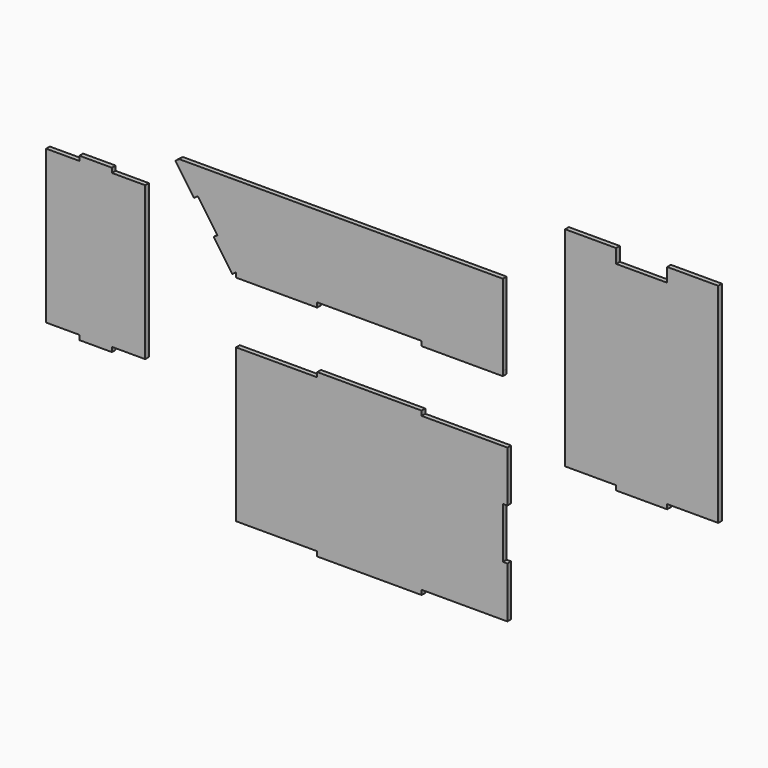
from build123d import *

# Parameters (mm, degrees)
F0_W     = 2
F0_H     = 22
F0_W_2   = 22.5
F0_H_2   = 2
F0_W_3   = 45
F0_W_4   = 22
F0_W_5   = 14
F0_H_3   = 1.999998
F0_W_6   = 7
F0_H_4   = 1.999997
F1_DEPTH = 2


with BuildPart() as f1:
    # F0 (on Front) → F1 (new body)
    with BuildSketch(Plane.XZ):
        Polygon((57.496984, -19.499998), (57.5, -17.5), (22.496984, -17.5), (22.496984, -19.499998), align=None)
        Polygon((22.496984, -17.5), (57.5, -17.5), (57.5, 17.5), (-57.5, 17.5), (-57.5, -17.5), (-22.496984, -17.5), (0, -17.5), align=None)
        Polygon((-57.5, -17.5), (-57.5, 17.5), (-82.007264, 17.5), (-73.977194, 6.031871), (-65.53007, -6.031871), align=None)
        Polygon((-22.496984, -19.499998), (-22.496984, -17.5), (-57.5, -17.5), (-57.496984, -19.499998), align=None)
        Polygon((-59.138304, -18.647153), (-57.5, -17.5), (-65.53007, -6.031871), (-67.168374, -7.179024), align=None)
        Polygon((-73.977194, 6.031871), (-82.007264, 17.5), (-83.645568, 16.352847), (-75.615498, 4.884719), align=None)
        Polygon((22.5, -111.954898), (57.5, -111.954898), (57.5, -89.954898), (57.5, -78.954898), (57.5, -67.954898), (57.5, -45.954898), (22.5, -45.954898), (-22.5, -45.954898), (-57.5, -45.954898), (-57.5, -111.954898), (-22.5, -111.954898), (0, -111.954898), align=None)
        with Locations((58.5, -100.954898)):
            Rectangle(F0_W, F0_H)
        with Locations((11.25, -112.954898)):
            Rectangle(F0_W_2, F0_H_2)
        with Locations((-11.25, -112.954898)):
            Rectangle(F0_W_2, F0_H_2)
        with Locations((58.5, -56.954898)):
            Rectangle(F0_W, F0_H)
        with Locations((0, -44.954898)):
            Rectangle(F0_W_3, F0_H_2)
        Polygon((128.361031, -45), (150.361031, -45), (150.361031, 45), (128.361031, 45), (128.361031, 39), (106.361031, 39), (106.361031, 45), (84.361031, 45), (84.361031, -45), (106.361031, -45), align=None)
        with Locations((117.361031, -46)):
            Rectangle(F0_W_4, F0_H_2)
        Polygon((-111.026572, -63.179985), (-96.663017, -63.179985), (-96.663017, 2.820015), (-111.026572, 2.820015), (-118.026572, 2.820015), (-125.026572, 2.820015), (-139.390128, 2.820015), (-139.390128, -63.179985), (-125.026572, -63.179985), align=None)
        with Locations((-118.026572, -64.179984)):
            Rectangle(F0_W_5, F0_H_3)
        with Locations((-114.526572, 3.820013)):
            Rectangle(F0_W_6, F0_H_4)
        with Locations((-121.526572, 3.820013)):
            Rectangle(F0_W_6, F0_H_4)
    extrude(amount=F1_DEPTH)


solid = f1.part
